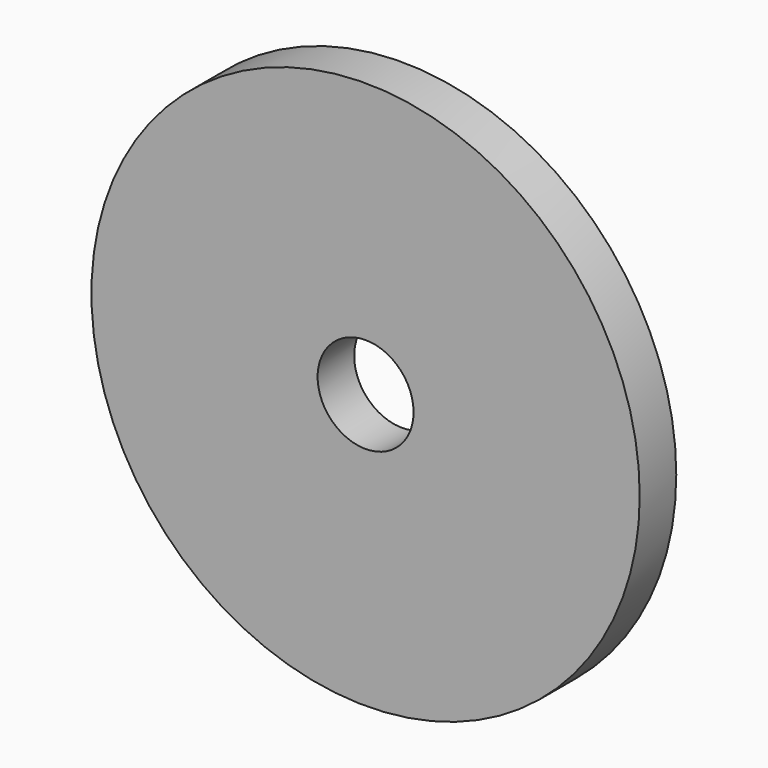
from build123d import *

# Parameters (mm, degrees)
CYLINDER011007_R     = 2.1
CYLINDER011007_DEPTH = 20
CYLINDER011008_R     = 12
CYLINDER011008_DEPTH = 2


with BuildPart() as belt_attach_insert_hole:
    # Cylinder011007 → Cylinder011007 (new body)
    with BuildSketch(Plane.XZ):
        Circle(CYLINDER011007_R)
    extrude(amount=CYLINDER011007_DEPTH)


with BuildPart() as belt_attach_washer_cut:
    # Cylinder011008 → Cylinder011008 (new body)
    with BuildSketch(Plane.XZ):
        Circle(CYLINDER011008_R)
    extrude(amount=CYLINDER011008_DEPTH)

    # Cut023015009008: cut belt attach insert hole
    add(belt_attach_insert_hole.part, mode=Mode.SUBTRACT)


solid = belt_attach_washer_cut.part
